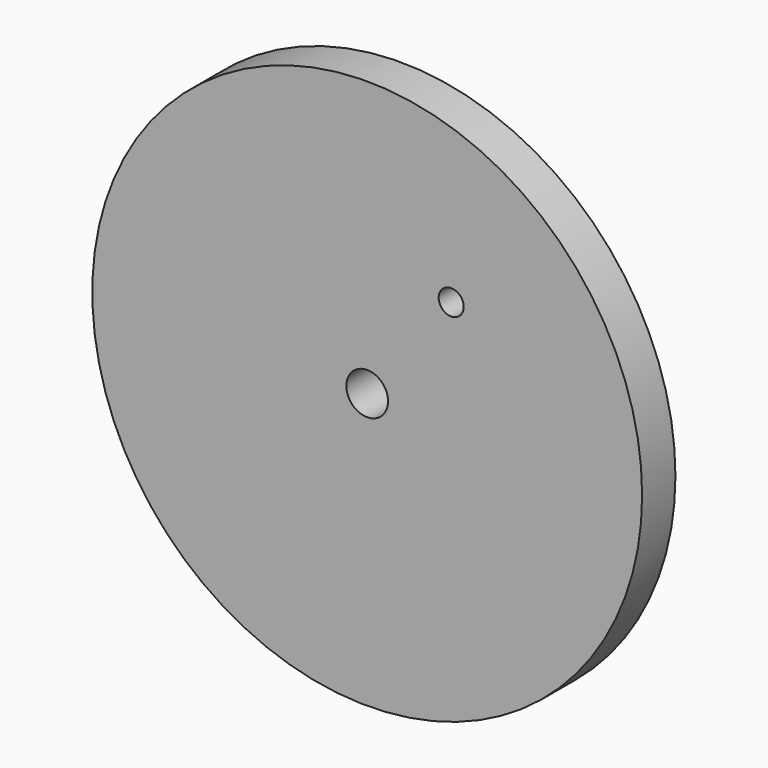
from build123d import *

# Parameters (mm, degrees)
F0_R     = 20.955
F0_R_2   = 1.5875
F0_R_3   = 0.9525
F1_DEPTH = 1.5875


with BuildPart() as f1:
    # F0 (on Front) → F1 (new body, symmetric)
    with BuildSketch(Plane.XZ):
        Circle(F0_R)
        Circle(F0_R_2, mode=Mode.SUBTRACT)
        with Locations((6.400799, 8.209722)):
            Circle(F0_R_3, mode=Mode.SUBTRACT)
    extrude(amount=F1_DEPTH, both=True)


solid = f1.part
